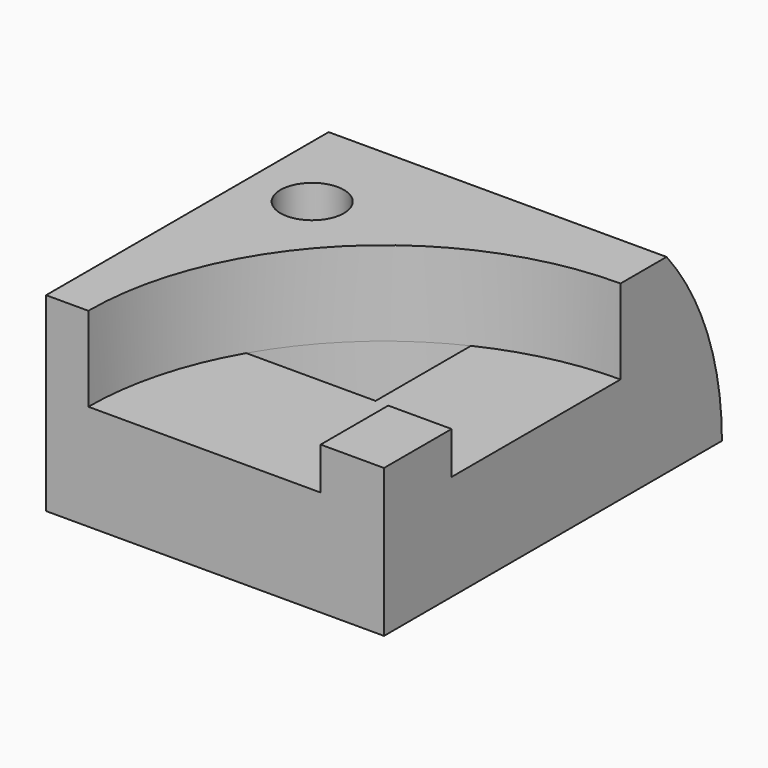
from build123d import *

# Parameters (mm, degrees)
F0_W      = 80
F0_H      = 45
F1_DEPTH  = 100
F3_DEPTH  = 80
F5_DEPTH  = 20
F6_W      = 15
F6_H      = 20
F7_DEPTH  = 10
F9_DEPTH  = 25
F11_DEPTH = 30


with BuildPart() as f1:
    # F0 (on Front) → F1 (new body)
    with BuildSketch(Plane.XZ):
        with Locations((-12.6218795647, 22.5)):
            Rectangle(F0_W, F0_H)
    extrude(amount=F1_DEPTH)

    # F2 (on face) → F3 (cut)
    with BuildSketch(Plane.YZ.offset(27.3781204353)):
        with BuildLine():
            ThreePointArc((-16.3809735262, 45), (-4.2226032243, 23.944395449), (0, 0))
            Line((0, 0), (0, 45))
            Line((0, 45), (-16.3809735262, 45))
        make_face()
    extrude(amount=-F3_DEPTH, mode=Mode.SUBTRACT)

    # F4 (on face) → F5 (cut)
    with BuildSketch(Plane.XY.offset(45)):
        with BuildLine():
            Line((-42.6218795647, -100), (27.3781204353, -100))
            Line((27.3781204353, -100), (27.3781204353, -30))
            ThreePointArc((27.3781204353, -30), (-22.1193542478, -50.5025253169), (-42.6218795647, -100))
        make_face()
    extrude(amount=-F5_DEPTH, mode=Mode.SUBTRACT)

    # F6 (on face) → F7 (join)
    with BuildSketch(Plane.XY.offset(25)):
        with Locations((19.8781204353, -90)):
            Rectangle(F6_W, F6_H)
    extrude(amount=F7_DEPTH)

    # F8 (on face) → F9 (cut)
    with BuildSketch(Plane.XY.offset(25)):
        with BuildLine():
            Line((-33.2436578296, -65), (-28.5492483526, -65))
            Line((-28.5492483526, -65), (-2.6218795647, -65))
            Line((-2.6218795647, -65), (-2.6218795647, -48.4272129834))
            Line((-2.6218795647, -48.4272129834), (-2.6218795647, -36.7544467966))
            ThreePointArc((-2.6218795647, -36.7544467966), (-20.0827001741, -48.5464237678), (-33.2436578296, -65))
        make_face()
    extrude(amount=-F9_DEPTH, mode=Mode.SUBTRACT)

    # F10 (on face) → F11 (cut)
    with BuildSketch(Plane.XY.offset(45)):
        with BuildLine():
            ThreePointArc((-37.6218795647, -32.5), (-42.9251804236, -34.6966991411), (-45.1218795647, -40))
            Line((-45.1218795647, -40), (-37.6218795647, -40))
            Line((-37.6218795647, -40), (-37.6218795647, -32.5))
        make_face()
        with BuildLine():
            Line((-37.6218795647, -40), (-45.1218795647, -40))
            ThreePointArc((-45.1218795647, -40), (-37.6218795647, -47.5), (-30.1218795647, -40))
            ThreePointArc((-30.1218795647, -40), (-32.3185787058, -34.6966991411), (-37.6218795647, -32.5))
            Line((-37.6218795647, -32.5), (-37.6218795647, -40))
        make_face()
    extrude(amount=-F11_DEPTH, mode=Mode.SUBTRACT)


solid = f1.part
